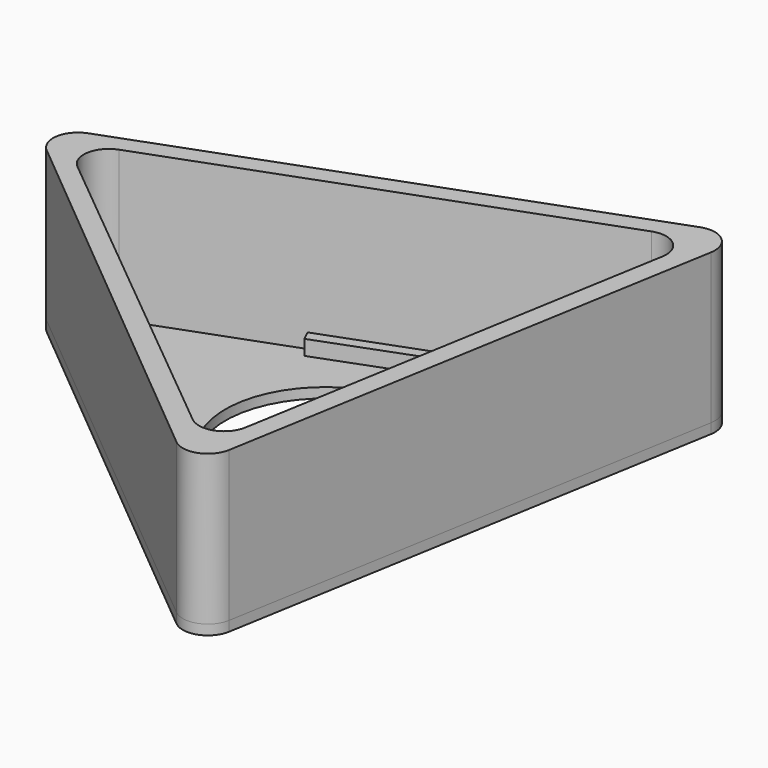
from build123d import *

# Parameters (mm, degrees)
F0_R     = 20
F1_DEPTH = 2
F3_DEPTH = 30
F4_R     = 5
F5_R     = 5
F6_DEPTH = 2
F7_R     = 5
F9_DEPTH = 3


with BuildPart() as f1:
    # F0 (on Top) → F1 (new body)
    with BuildSketch(Plane.XY):
        Polygon((23.6009889939, -63.9087368976), (43.5460951802, 52.3934244719), (-67.147084174, 11.5153124257), align=None)
        Circle(F0_R, mode=Mode.SUBTRACT)
    extrude(amount=F1_DEPTH)

    # F2 (on face) → F3 (join)
    with BuildSketch(Plane.XY.offset(2)):
        Polygon((43.5460951802, 52.3934244719), (-67.147084174, 11.5153124257), (23.6009889939, -63.9087368976), align=None)
        Polygon((20.8500493318, -56.3483797014), (-59.9821954966, 10.1693784818), (38.4940678967, 46.5358804865), align=None, mode=Mode.SUBTRACT)
    extrude(amount=F3_DEPTH)

    # F4
    f4_edges = [f1.edges().sort_by_distance(p)[0] for p in [
        (-67.147084, 11.515312, 16),
        (43.546095, 52.393424, 16),
        (23.600989, -63.908737, 16),
    ]]
    fillet(f4_edges, radius=F4_R)

    # F5
    f5_edges = [f1.edges().sort_by_distance(p)[0] for p in [
        (-59.982195, 10.169378, 17),
        (38.494068, 46.53588, 17),
        (20.850049, -56.34838, 17),
    ]]
    fillet(f5_edges, radius=F5_R)


with BuildPart() as f6:
    # F0 (on Top) → F6 (new body)
    with BuildSketch(Plane.XY):
        Polygon((23.6009889939, -63.9087368976), (43.5460951802, 52.3934244719), (-67.147084174, 11.5153124257), align=None)
        Circle(F0_R, mode=Mode.SUBTRACT)
    extrude(amount=F6_DEPTH)

    # F7
    f7_edges = [f6.edges().sort_by_distance(p)[0] for p in [
        (-67.147084, 11.515312, 1),
        (23.600989, -63.908737, 1),
        (43.546095, 52.393424, 1),
    ]]
    fillet(f7_edges, radius=F7_R)

    # F8 (on face) → F9 (join)
    with BuildSketch(Plane.XY.offset(2)):
        Polygon((-23.5661102989, -16.8355783103), (-24.8647145927, -18.4205565602), (-8.5090165958, -31.9110229611), (-7.2052266655, -30.3303219151), align=None)
        Polygon((2.7846527248, 33.2844954095), (-22.5964058191, 23.8416101784), (-21.6413289309, 21.8120720237), (3.5488323774, 31.2434583902), align=None)
        Polygon((27.1869953722, -18.1817878038), (31.1266854405, 4.740065895), (28.9837907485, 5.0356259463), (25.0562457372, -17.815565539), align=None)
    extrude(amount=F9_DEPTH)


solid = Compound([f1.part, f6.part])
